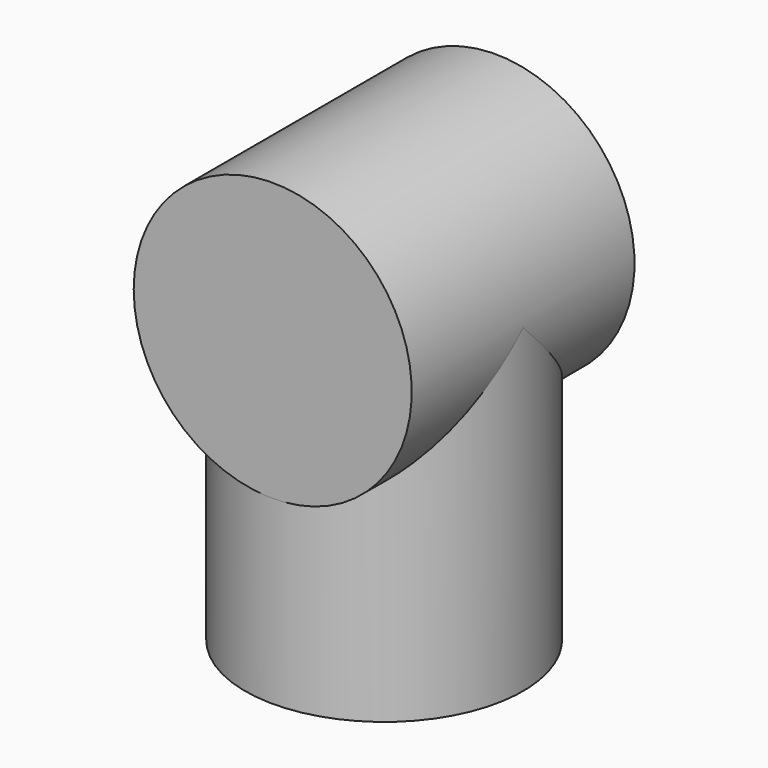
from build123d import *

# Parameters (mm, degrees)
CYLINDER050_R             = 13.9827
CYLINDER050_DEPTH         = 28.0162
CYLINDER049_R             = 13.9827
CYLINDER049_DEPTH         = 32.1945
FUSION020_PLACEMENT_ANGLE = 180


with BuildPart() as cylinder050:
    # Cylinder050 → Cylinder050 (new body)
    with BuildSketch(Plane.XZ.offset(-14.0081)):
        Circle(CYLINDER050_R)
    extrude(amount=CYLINDER050_DEPTH)


with BuildPart() as middle_outer_slip_r:
    # Cylinder049 → Cylinder049 (new body)
    with BuildSketch(Plane.XY):
        Circle(CYLINDER049_R)
    extrude(amount=CYLINDER049_DEPTH)

    # Fusion020: union Cylinder050
    add(cylinder050.part)


with BuildPart() as middle_outer_slip_r_1:
    # Fusion020 placement: moved
    add(middle_outer_slip_r.part.moved(Location((0, 217, 406))).rotate(Axis((0, 217, 406), (0, 1, 0)), FUSION020_PLACEMENT_ANGLE))


solid = middle_outer_slip_r_1.part
